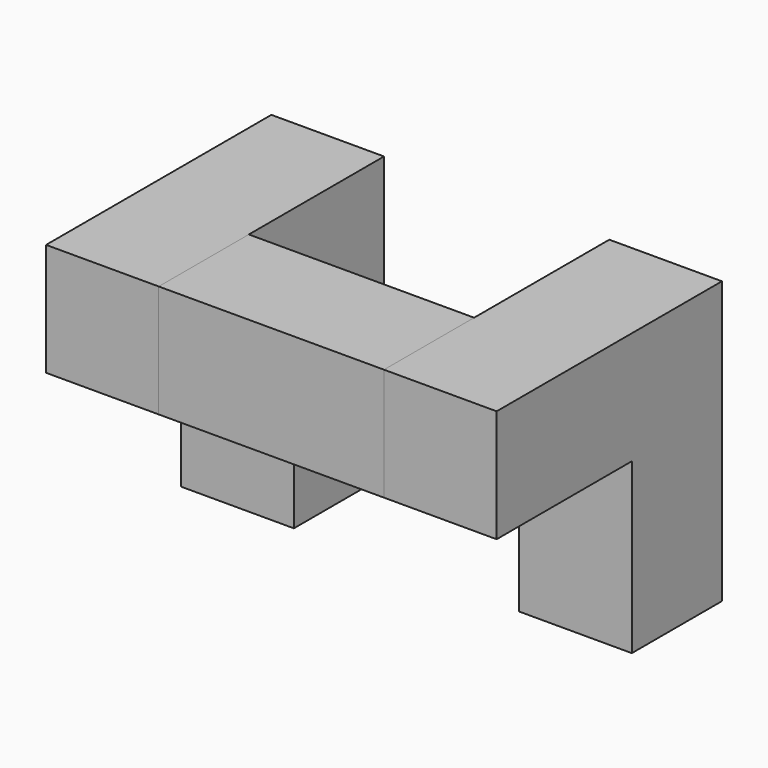
from build123d import *

# Parameters (mm, degrees)
F0_W     = 50.8
F0_H     = 127
F1_DEPTH = 50.8
F2_W     = 50.8
F2_H     = 50.8
F3_DEPTH = 76.2
F4_W     = 50.8
F4_H     = 50.8
F5_DEPTH = 76.2
F6_W     = 50.8
F6_H     = 50.8
F7_DEPTH = 101.6


with BuildPart() as f1:
    # F0 (on Front) → F1 (new body)
    with BuildSketch(Plane.XZ):
        with Locations((-75.674206, -21.018796)):
            Rectangle(F0_W, F0_H)
        with Locations((76.725794, -21.018796)):
            Rectangle(F0_W, F0_H)
    extrude(amount=F1_DEPTH)

    # F2 (on face) → F3 (join)
    with BuildSketch(Plane.XZ.offset(50.8)):
        with Locations((76.725794, 17.081204)):
            Rectangle(F2_W, F2_H)
    extrude(amount=F3_DEPTH)

    # F4 (on face) → F5 (join)
    with BuildSketch(Plane.XZ.offset(50.8)):
        with Locations((-75.674206, 17.081204)):
            Rectangle(F4_W, F4_H)
    extrude(amount=F5_DEPTH)


with BuildPart() as f7:
    # F6 (on face) → F7 (new body)
    with BuildSketch(Plane.YZ.offset(-50.274206)):
        with Locations((-101.6, 17.081204)):
            Rectangle(F6_W, F6_H)
    extrude(amount=F7_DEPTH)


solid = Compound([f1.part, f7.part])
